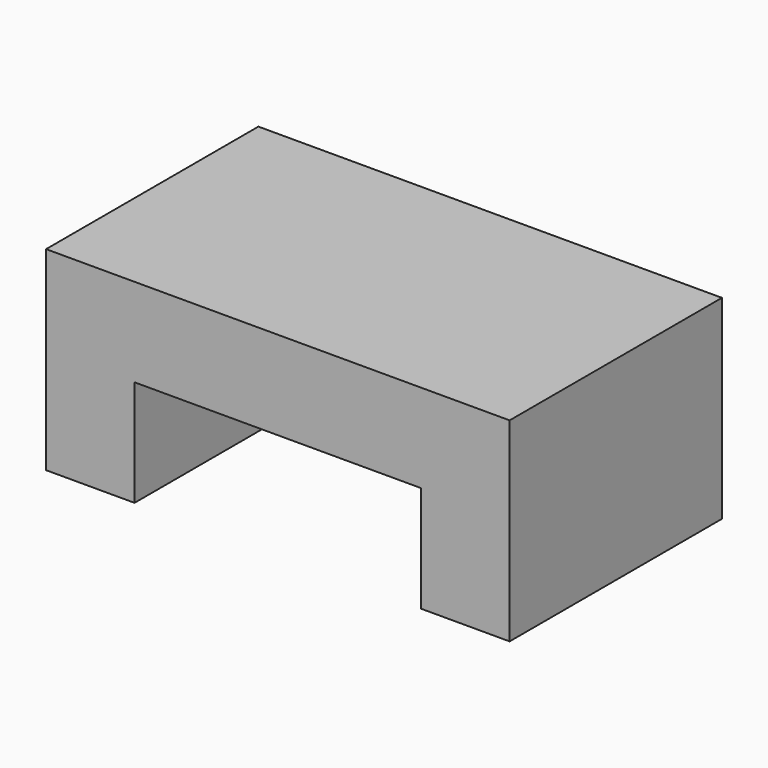
from build123d import *

# Parameters (mm, degrees)
EXTRUDE_DEPTH                  = 30
EXTRUDE_ONTO_SKETCH_ROLL_ANGLE = 90


with BuildPart() as part:
    # Sketch as drawn → Extrude (new)
    with BuildSketch(Plane.XY):
        Polygon((-26.2, 22), (26.2, 22), (26.2, 0), (16.2, 0), (16.2, 12), (-16.2, 12), (-16.2, 0), (-26.2, 0), align=None)
    extrude(amount=-EXTRUDE_DEPTH)


with BuildPart() as part_1:
    # Extrude onto Sketch roll: moved
    add(part.part.rotate(Axis((0, 0, 0), (1, 0, 0)), EXTRUDE_ONTO_SKETCH_ROLL_ANGLE))


with BuildPart() as part_2:
    # Extrude onto Sketch placement: moved
    add(part_1.part)


solid = part_2.part
